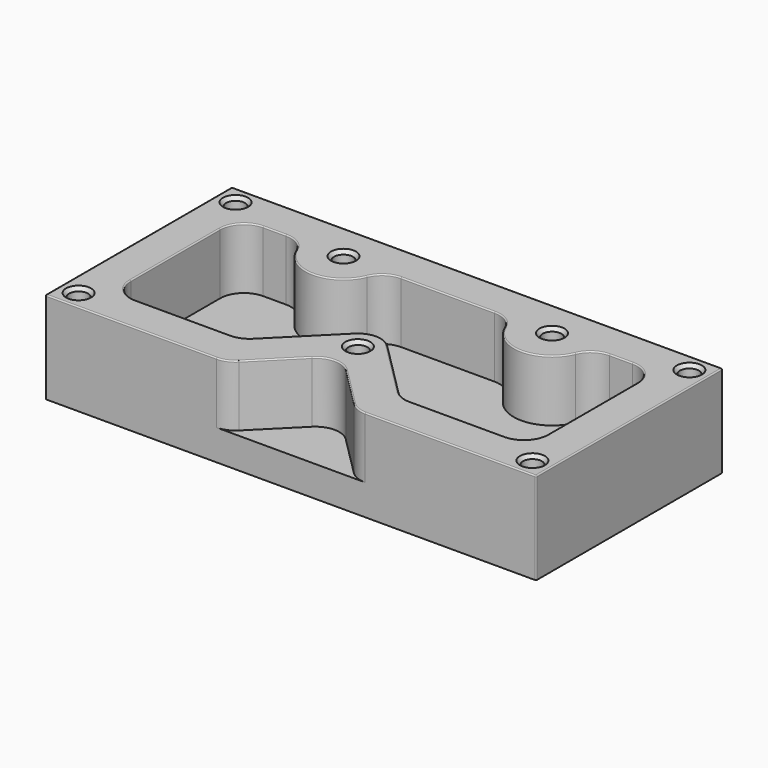
from build123d import *

# Parameters (mm, degrees)
BOX_W            = 101.6
BOX_H            = 48.26
BOX_DEPTH        = 19.05
FILLET_R         = 0.254
HOLE_D           = 3.9
HOLE_DEPTH       = 13.446125
HOLE_CSINK_D     = 5.1816
HOLE_CSINK_ANGLE = 82
HOLE_TIPS_R      = 1.95
POCKET_DEPTH     = 12.7
FILLET001_R      = 0.254


with BuildPart() as part:
    # Box → Box (join)
    with BuildSketch(Plane.XY):
        with Locations((50.8, 24.13)):
            Rectangle(BOX_W, BOX_H)
    extrude(amount=BOX_DEPTH)

    # Fillet
    fillet_edges = [part.edges().sort_by_distance(p)[0] for p in [
        (0, 0, 9.525),
        (0, 48.26, 9.525),
        (101.6, 48.26, 9.525),
        (101.6, 0, 9.525),
    ]]
    fillet(fillet_edges, radius=FILLET_R)

    # Hole
    with Locations(Plane.XY.offset(19.05)):
        with Locations((3.81, 44.45), (97.79, 44.45), (29.21, 40.64), (72.39, 40.64), (3.81, 3.81), (97.79, 3.81), (50.8, 17.3736)):
            CounterSinkHole(HOLE_D / 2, HOLE_CSINK_D / 2, depth=HOLE_DEPTH, counter_sink_angle=HOLE_CSINK_ANGLE)

    # Hole tips → Hole tip 1 section 0
    with BuildSketch(Plane.XY.offset(5.603875), mode=Mode.PRIVATE) as hole_tip_1_s0:
        with Locations((3.81, 44.45)):
            Circle(HOLE_TIPS_R)
    loft([hole_tip_1_s0.sketch, Vertex(3.81, 44.45, 4.432197)], mode=Mode.SUBTRACT)

    # Hole tips → Hole tip 2 section 0
    with BuildSketch(Plane.XY.offset(5.603875), mode=Mode.PRIVATE) as hole_tip_2_s0:
        with Locations((97.79, 44.45)):
            Circle(HOLE_TIPS_R)
    loft([hole_tip_2_s0.sketch, Vertex(97.79, 44.45, 4.432197)], mode=Mode.SUBTRACT)

    # Hole tips → Hole tip 3 section 0
    with BuildSketch(Plane.XY.offset(5.603875), mode=Mode.PRIVATE) as hole_tip_3_s0:
        with Locations((29.21, 40.64)):
            Circle(HOLE_TIPS_R)
    loft([hole_tip_3_s0.sketch, Vertex(29.21, 40.64, 4.432197)], mode=Mode.SUBTRACT)

    # Hole tips → Hole tip 4 section 0
    with BuildSketch(Plane.XY.offset(5.603875), mode=Mode.PRIVATE) as hole_tip_4_s0:
        with Locations((72.39, 40.64)):
            Circle(HOLE_TIPS_R)
    loft([hole_tip_4_s0.sketch, Vertex(72.39, 40.64, 4.432197)], mode=Mode.SUBTRACT)

    # Hole tips → Hole tip 5 section 0
    with BuildSketch(Plane.XY.offset(5.603875), mode=Mode.PRIVATE) as hole_tip_5_s0:
        with Locations((3.81, 3.81)):
            Circle(HOLE_TIPS_R)
    loft([hole_tip_5_s0.sketch, Vertex(3.81, 3.81, 4.432197)], mode=Mode.SUBTRACT)

    # Hole tips → Hole tip 6 section 0
    with BuildSketch(Plane.XY.offset(5.603875), mode=Mode.PRIVATE) as hole_tip_6_s0:
        with Locations((97.79, 3.81)):
            Circle(HOLE_TIPS_R)
    loft([hole_tip_6_s0.sketch, Vertex(97.79, 3.81, 4.432197)], mode=Mode.SUBTRACT)

    # Hole tips → Hole tip 7 section 0
    with BuildSketch(Plane.XY.offset(5.603875), mode=Mode.PRIVATE) as hole_tip_7_s0:
        with Locations((50.8, 17.3736)):
            Circle(HOLE_TIPS_R)
    loft([hole_tip_7_s0.sketch, Vertex(50.8, 17.3736, 4.432197)], mode=Mode.SUBTRACT)

    # Sketch (on Face2 of Hole) → Pocket (cut)
    with BuildSketch(Plane.XY.offset(19.05)):
        with BuildLine():
            Line((7.62, 12.573), (7.62, 35.687))
            ThreePointArc((12.573, 40.64), (9.0707, 39.1893), (7.62, 35.687))
            Line((12.573, 40.64), (17.295288, 40.64))
            ThreePointArc((21.868849, 37.58825), (20.044408, 39.807018), (17.295288, 40.64))
            ThreePointArc((21.868849, 37.58825), (29.21, 32.6898), (36.551151, 37.58825))
            ThreePointArc((41.124712, 40.64), (38.375592, 39.807018), (36.551151, 37.58825))
            Line((41.124712, 40.64), (60.475288, 40.64))
            ThreePointArc((65.048849, 37.58825), (63.224408, 39.807018), (60.475288, 40.64))
            ThreePointArc((65.048849, 37.58825), (72.39, 32.6898), (79.731151, 37.58825))
            ThreePointArc((84.304712, 40.64), (81.555592, 39.807018), (79.731151, 37.58825))
            Line((84.304712, 40.64), (89.027, 40.64))
            ThreePointArc((93.98, 35.687), (92.5293, 39.1893), (89.027, 40.64))
            Line((93.98, 35.687), (93.98, 12.573))
            ThreePointArc((89.027, 7.62), (92.5293, 9.0707), (93.98, 12.573))
            Line((89.027, 7.62), (69.358352, 7.62))
            ThreePointArc((65.856052, 9.0707), (67.462921, 7.997025), (69.358352, 7.62))
            Line((65.856052, 9.0707), (54.176576, 20.750176))
            ThreePointArc((54.176576, 20.750176), (50.8, 22.1488), (47.423424, 20.750176))
            Line((47.423424, 20.750176), (35.743948, 9.0707))
            ThreePointArc((32.241648, 7.62), (34.137079, 7.997025), (35.743948, 9.0707))
            Line((32.241648, 7.62), (12.573, 7.62))
            ThreePointArc((7.62, 12.573), (9.0707, 9.0707), (12.573, 7.62))
        make_face()
        with BuildLine():
            Line((38.8961, 1.4507), (47.2977, 9.8523))
            ThreePointArc((54.3023, 9.8523), (50.8, 11.303), (47.2977, 9.8523))
            Line((54.3023, 9.8523), (62.7039, 1.4507))
            ThreePointArc((62.7039, 1.4507), (64.310769, 0.377025), (66.2062, 0))
            Line((35.3938, 0), (66.2062, 0))
            ThreePointArc((35.3938, 0), (37.289231, 0.377025), (38.8961, 1.4507))
        make_face()
    extrude(amount=-POCKET_DEPTH, mode=Mode.SUBTRACT)

    # Fillet001
    fillet001_edges = [part.edges().sort_by_distance(p)[0] for p in [
        (17.8239, 0, 19.05),
        (22.407324, 7.62, 19.05),
    ]]
    fillet(fillet001_edges, radius=FILLET001_R)


solid = part.part
